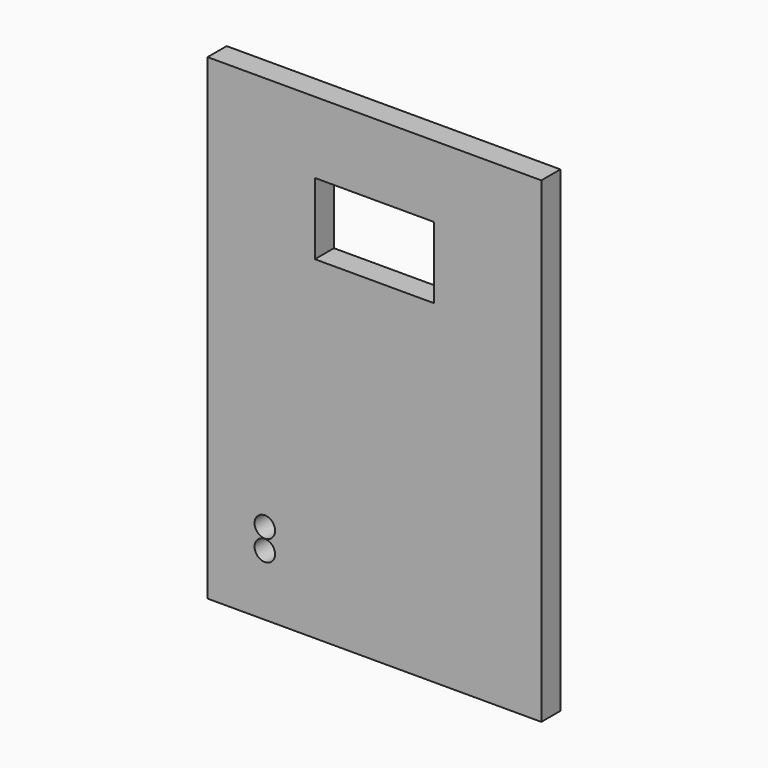
from build123d import *

# Parameters (mm, degrees)
F0_W     = 88.9
F0_H     = 127
F0_R     = 2.7305
F0_W_2   = 31.75
F0_H_2   = 19.05
F1_DEPTH = 6.35


with BuildPart() as f1:
    # F0 (on Front) → F1 (new body)
    with BuildSketch(Plane.XZ):
        Rectangle(F0_W, F0_H)
        with Locations((-29.21, -47.244)):
            Circle(F0_R, mode=Mode.SUBTRACT)
        with Locations((-29.21, -41.7195)):
            Circle(F0_R, mode=Mode.SUBTRACT)
        with Locations((0, 34.925)):
            Rectangle(F0_W_2, F0_H_2, mode=Mode.SUBTRACT)
    extrude(amount=F1_DEPTH)


solid = f1.part
